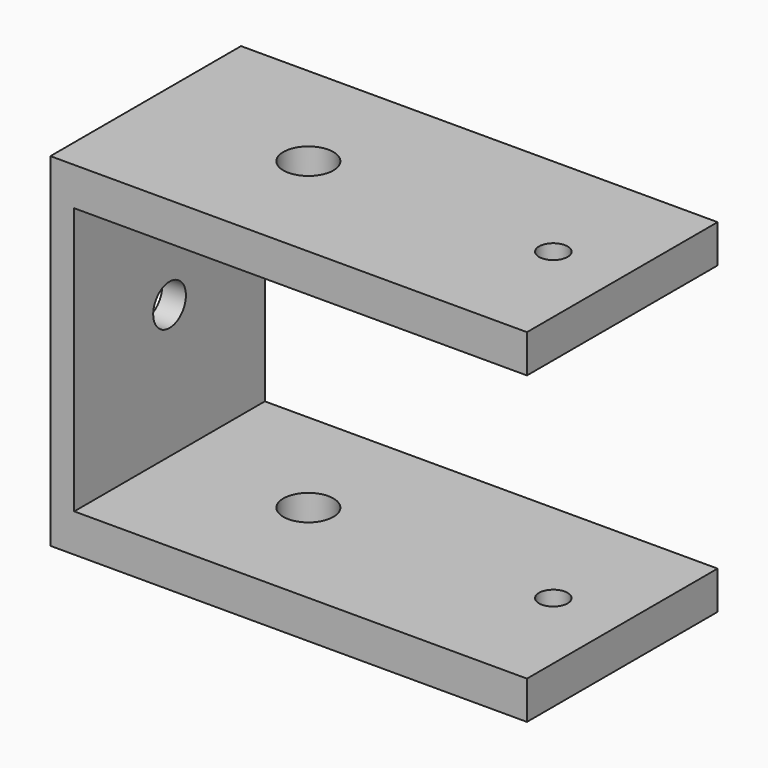
from build123d import *

# Parameters (mm, degrees)
F1_DEPTH = 25
F2_R     = 1.5
F3_DEPTH = 36.001
F4_R     = 2.145417
F5_DEPTH = 50.001
F6_R     = 2.624868
F7_DEPTH = 36.001


with BuildPart() as f1:
    # F0 (on Front) → F1 (new body)
    with BuildSketch(Plane.XZ):
        Polygon((25, 18), (-25, 18), (-25, -18), (25, -18), (25, -14), (22.5, -14), (-22.5, -14), (-22.5, 14), (22.5, 14), (25, 14), align=None)
    extrude(amount=F1_DEPTH)

    # F2 (on face) → F3 (cut, through all)
    with BuildSketch(Plane.XY.offset(18)):
        with Locations((17.761598, -12.5)):
            Circle(F2_R)
    extrude(amount=-F3_DEPTH, mode=Mode.SUBTRACT)

    # F4 (on face) → F5 (cut, through all)
    with BuildSketch(Plane(origin=(-25, 0, 0), x_dir=(0, -1, 0), z_dir=(-1, 0, 0))):
        with Locations((12.5, 0)):
            Circle(F4_R)
    extrude(amount=-F5_DEPTH, mode=Mode.SUBTRACT)

    # F6 (on face) → F7 (cut, through all)
    with BuildSketch(Plane.XY.offset(18)):
        with Locations((-7.933488, -12.5)):
            Circle(F6_R)
    extrude(amount=-F7_DEPTH, mode=Mode.SUBTRACT)


solid = f1.part
